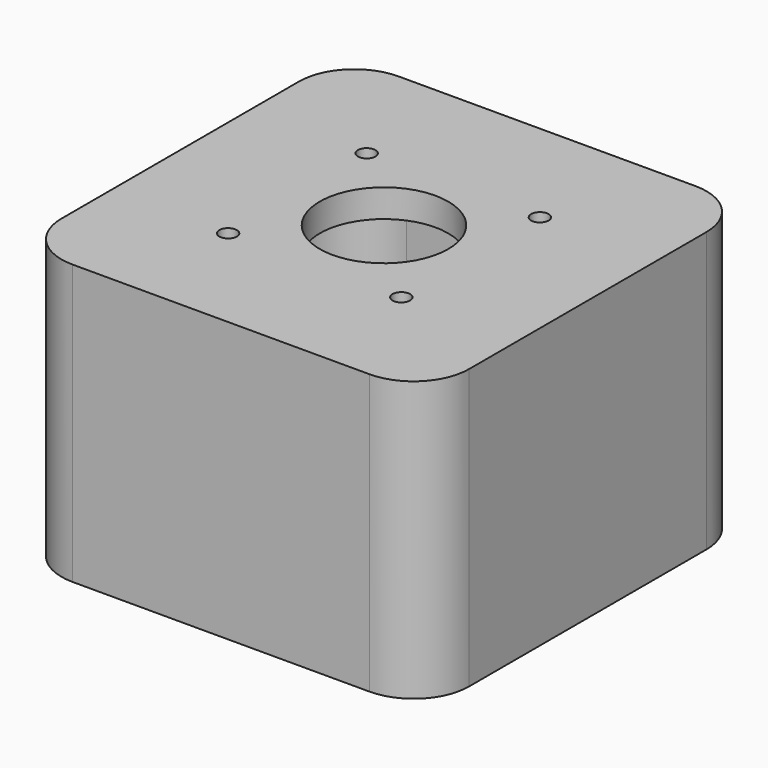
from build123d import *

# Parameters (mm, degrees)
SKETCH_R        = 1.56961
SKETCH_R_2      = 11.5
PAD_DEPTH       = 50
POCKET_DEPTH    = 45
SKETCH002_W     = 4.8693872445
SKETCH002_H     = 8
POCKET001_DEPTH = 5


with BuildPart() as part:
    # Sketch → Pad (new body)
    with BuildSketch(Plane.XY):
        with BuildLine():
            Line((-26.5555397501, 36.4599848379), (26.5555397501, 36.4599848379))
            ThreePointArc((36.4599848378, 26.5555397501), (33.5590400355, 33.5590400355), (26.5555397501, 36.4599848378))
            Line((36.4599848379, 26.5555397501), (36.4599848379, -26.5555397501))
            ThreePointArc((26.5555397501, -36.4599848378), (33.5590400355, -33.5590400355), (36.4599848378, -26.5555397501))
            Line((26.5555397501, -36.4599848379), (-26.5555397501, -36.4599848379))
            ThreePointArc((-36.4599848378, -26.5555397501), (-33.5590400355, -33.5590400355), (-26.5555397501, -36.4599848378))
            Line((-36.4599848379, -26.5555397501), (-36.4599848379, 26.5555397501))
            ThreePointArc((-26.5555397501, 36.4599848378), (-33.5590400355, 33.5590400355), (-36.4599848378, 26.5555397501))
        make_face()
        with Locations((15.5, 15.5)):
            Circle(SKETCH_R, mode=Mode.SUBTRACT)
        with Locations((-15.5, 15.5)):
            Circle(SKETCH_R, mode=Mode.SUBTRACT)
        with Locations((15.5, -15.5)):
            Circle(SKETCH_R, mode=Mode.SUBTRACT)
        with Locations((-15.5, -15.5)):
            Circle(SKETCH_R, mode=Mode.SUBTRACT)
        Circle(SKETCH_R_2, mode=Mode.SUBTRACT)
    extrude(amount=PAD_DEPTH)

    # Sketch001 → Pocket (cut)
    with BuildSketch(Plane(origin=(0, 0, 0), x_dir=(1, 0, 0), z_dir=(0, 0, -1))):
        with BuildLine():
            Line((-21.2160363943, 31.5905975933), (21.2160363942, 31.5905975933))
            ThreePointArc((31.5905975933, 21.2160363942), (28.55195897, 28.55195897), (21.2160363942, 31.5905975933))
            Line((31.5905975933, 21.2160363942), (31.5905975933, -21.2160363942))
            ThreePointArc((21.2160363943, -31.5905975933), (28.55195897, -28.5519589699), (31.5905975933, -21.2160363942))
            Line((21.2160363943, -31.5905975933), (-21.2160363943, -31.5905975933))
            ThreePointArc((-31.5905975933, -21.2160363943), (-28.5519589699, -28.55195897), (-21.2160363942, -31.5905975933))
            Line((-31.5905975933, -21.2160363943), (-31.5905975933, 21.2160363943))
            ThreePointArc((-21.2160363943, 31.5905975933), (-28.55195897, 28.55195897), (-31.5905975933, 21.2160363942))
        make_face()
    extrude(amount=-POCKET_DEPTH, mode=Mode.SUBTRACT)

    # Sketch002 → Pocket001 (cut)
    with BuildSketch(Plane(origin=(0, 0, 0), x_dir=(1, 0, 0), z_dir=(0, 0, -1))):
        with Locations((-34.0252912156, -0.0510141845)):
            Rectangle(SKETCH002_W, SKETCH002_H)
    extrude(amount=-POCKET001_DEPTH, mode=Mode.SUBTRACT)


solid = part.part
